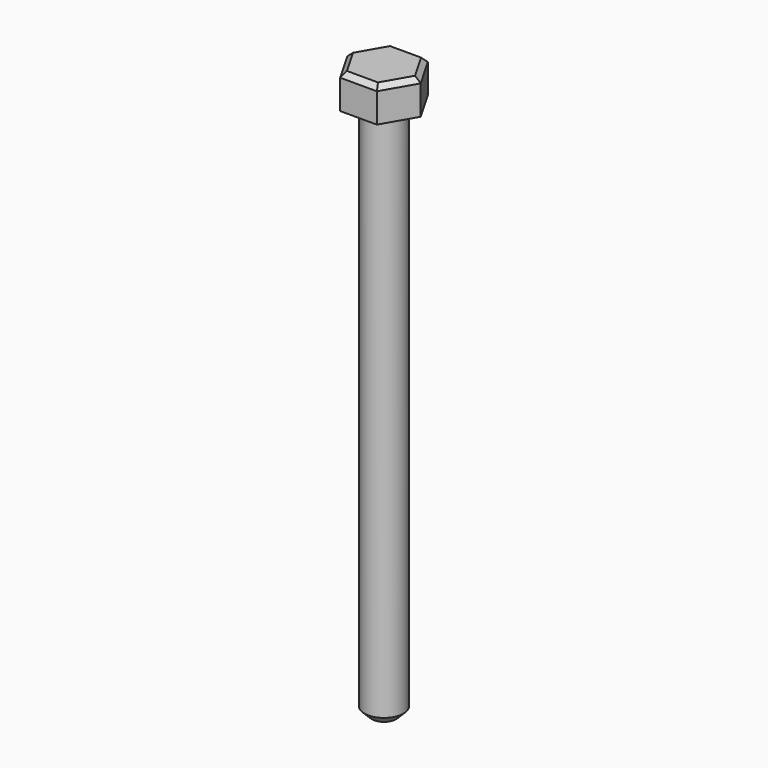
from build123d import *

# Parameters (mm, degrees)
F0_R     = 4
F1_DEPTH = 7
F2_DEPTH = 110
F3_SIZE  = 1.5
F4_SIZE2 = 1
F4_SIZE  = 1


with BuildPart() as f1:
    # F0 (on Top) → F1 (new body)
    with BuildSketch(Plane.XY):
        Polygon((3.752777, 6.5), (-3.752777, 6.5), (-7.505553, 0), (-3.752777, -6.5), (3.752777, -6.5), (7.505553, 0), align=None)
        Circle(F0_R, mode=Mode.SUBTRACT)
        Circle(F0_R)
    extrude(amount=F1_DEPTH)

    # F0 (on Top) → F2 (join)
    with BuildSketch(Plane.XY):
        Circle(F0_R)
    extrude(amount=-F2_DEPTH)

    # F3
    f3_edges = [f1.edges().sort_by_distance(p)[0] for p in [
        (-4, 0, -110),
    ]]
    chamfer(f3_edges, length=F3_SIZE)

    # F4
    f4_edges = [f1.edges().sort_by_distance(p)[0] for p in [
        (5.629165, 3.25, 7),
        (0, 6.5, 7),
        (-5.629165, 3.25, 7),
        (-5.629165, -3.25, 7),
        (0, -6.5, 7),
        (5.629165, -3.25, 7),
    ]]
    chamfer(f4_edges, length=F4_SIZE, length2=F4_SIZE2)


solid = f1.part
